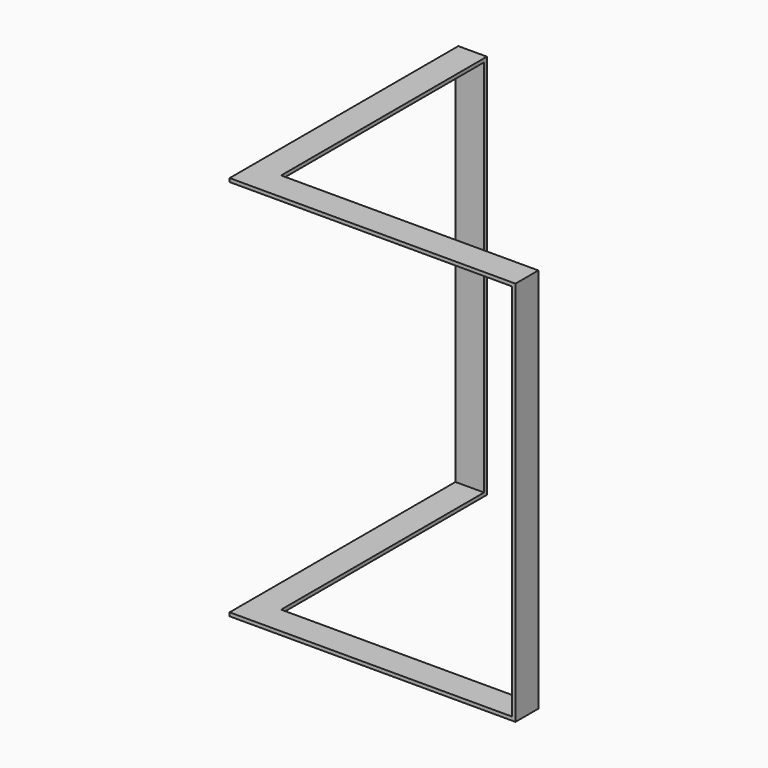
from build123d import *

# Parameters (mm, degrees)
F1_DEPTH = 6.35
F2_W     = 6.35
F2_H     = 50.8
F3_DEPTH = 673.1
F5_DEPTH = 6.35
F6_W     = 50.8
F6_H     = 6.35
F7_DEPTH = 673.1


with BuildPart() as f1:
    # F0 (on Top) → F1 (new body)
    with BuildSketch(Plane.XY):
        Polygon((457.2, 0), (0, 0), (0, 457.2), (-50.8, 457.2), (-50.8, -50.8), (457.2, -50.8), align=None)
    extrude(amount=F1_DEPTH)

    # F2 (on face) → F3 (join)
    with BuildSketch(Plane(origin=(0, 0, 0), x_dir=(1, 0, 0), z_dir=(0, 0, -1))):
        with Locations((454.025, 25.4)):
            Rectangle(F2_W, F2_H)
    extrude(amount=F3_DEPTH)

    # F4 (on face) → F5 (join)
    with BuildSketch(Plane(origin=(0, 0, -673.1), x_dir=(1, 0, 0), z_dir=(0, 0, -1))):
        Polygon((457.2, 0), (457.2, 50.8), (-50.8, 50.8), (-50.8, -457.2), (0, -457.2), (0, 0), align=None)
    extrude(amount=F5_DEPTH)

    # F6 (on face) → F7 (join, through all)
    with BuildSketch(Plane(origin=(0, 0, 0), x_dir=(1, 0, 0), z_dir=(0, 0, -1))):
        with Locations((-25.4, -454.025)):
            Rectangle(F6_W, F6_H)
    extrude(amount=F7_DEPTH)


solid = f1.part
